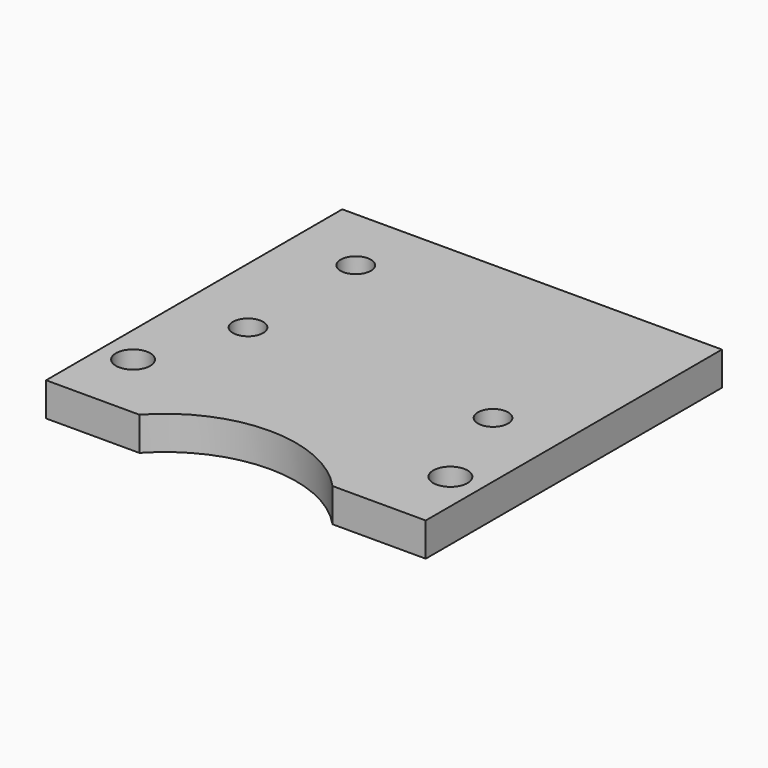
from build123d import *

# Parameters (mm, degrees)
F0_W     = 56.4
F0_H     = 40
F0_R     = 2.25
F0_R_2   = 2.55
F1_DEPTH = 5


with BuildPart() as f1:
    # F0 (on Top) → F1 (new body)
    with BuildSketch(Plane.XY):
        with Locations((0, 48.2)):
            Rectangle(F0_W, F0_H)
        with Locations((-18.2, 38.2)):
            Circle(F0_R, mode=Mode.SUBTRACT)
        with Locations((18.2, 38.2)):
            Circle(F0_R, mode=Mode.SUBTRACT)
        with Locations((-18.2, 58.2)):
            Circle(F0_R, mode=Mode.SUBTRACT)
        with BuildLine():
            Line((28.2, 28.2), (-28.2, 28.2))
            Line((-28.2, 28.2), (-28.2, 13.2))
            Line((-28.2, 13.2), (-14.353048, 13.2))
            ThreePointArc((-14.353048, 13.2), (0, 19.5), (14.353048, 13.2))
            Line((14.353048, 13.2), (28.2, 13.2))
            Line((28.2, 13.2), (28.2, 28.2))
        make_face()
        with Locations((-23.57, 23.57)):
            Circle(F0_R_2, mode=Mode.SUBTRACT)
        with Locations((23.57, 23.57)):
            Circle(F0_R_2, mode=Mode.SUBTRACT)
    extrude(amount=F1_DEPTH)


solid = f1.part
